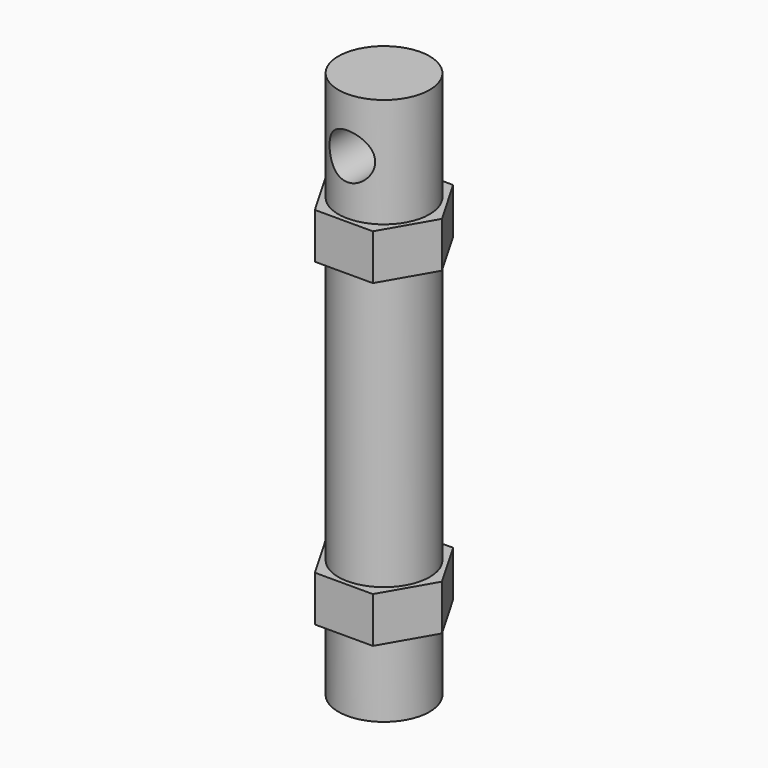
from build123d import *

# Parameters (mm, degrees)
F0_R      = 5
F1_DEPTH  = 60
F4_DEPTH  = 5
F7_DEPTH  = 5
F8_R      = 2.5
F9_DEPTH  = 12.5
F10_R     = 2.5
F11_DEPTH = 50


with BuildPart() as f1:
    # F0 (on Top) → F1 (new body)
    with BuildSketch(Plane.XY):
        Circle(F0_R)
    extrude(amount=F1_DEPTH)

    # F3 (on offset) → F4 (join)
    with BuildSketch(Plane.XY.offset(8)):
        Polygon((3.175426, 5.5), (-3.175426, 5.5), (-6.350853, 0), (-3.175426, -5.5), (3.175426, -5.5), (6.350853, 0), align=None)
    extrude(amount=F4_DEPTH)

    # F6 (on offset) → F7 (join)
    with BuildSketch(Plane.XY.offset(43)):
        Polygon((3.175426, 5.5), (-3.175426, 5.5), (-6.350853, 0), (-3.175426, -5.5), (3.175426, -5.5), (6.350853, 0), align=None)
    extrude(amount=F7_DEPTH)

    # F8 (on Front) → F9 (cut, symmetric)
    with BuildSketch(Plane.XZ):
        with Locations((0, 54)):
            Circle(F8_R)
    extrude(amount=F9_DEPTH, both=True, mode=Mode.SUBTRACT)

    # F10 (on face) → F11 (cut)
    with BuildSketch(Plane(origin=(0, 0, 0), x_dir=(1, 0, 0), z_dir=(0, 0, -1))):
        Circle(F10_R)
    extrude(amount=-F11_DEPTH, mode=Mode.SUBTRACT)


solid = f1.part
